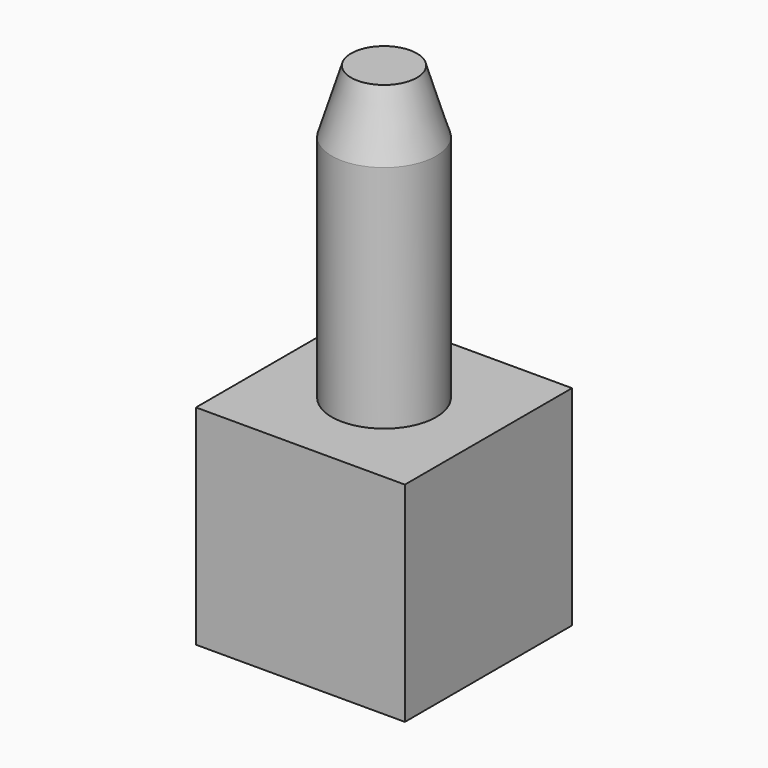
from build123d import *

# Parameters (mm, degrees)
SKETCH_W     = 1000
SKETCH_H     = 1000
PAD_DEPTH    = 1000
SKETCH001_R  = 157.5
PAD001_DEPTH = 1300
SKETCH002_R  = 250
PAD002_DEPTH = 1100


with BuildPart() as part:
    # Sketch → Pad (new body)
    with BuildSketch(Plane.XY):
        Rectangle(SKETCH_W, SKETCH_H)
    extrude(amount=PAD_DEPTH)

    # Sketch001 (on Face6 of Pad) → Pad001 (join)
    with BuildSketch(Plane.XY.offset(1000)):
        Circle(SKETCH001_R)
    extrude(amount=PAD001_DEPTH)

    # Sketch002 (on Face5 of Pad001) → Pad002 (join)
    with BuildSketch(Plane.XY.offset(1000)):
        Circle(SKETCH002_R)
    extrude(amount=PAD002_DEPTH)

    # Sketch003 → Revolution (revolve)
    with BuildSketch(Plane.XZ):
        Polygon((0, 2100), (250, 2100), (157.5, 2400), (0, 2400), align=None)
    revolve(axis=Axis((0, 0, 0), (0, 0, 1)))


solid = part.part
